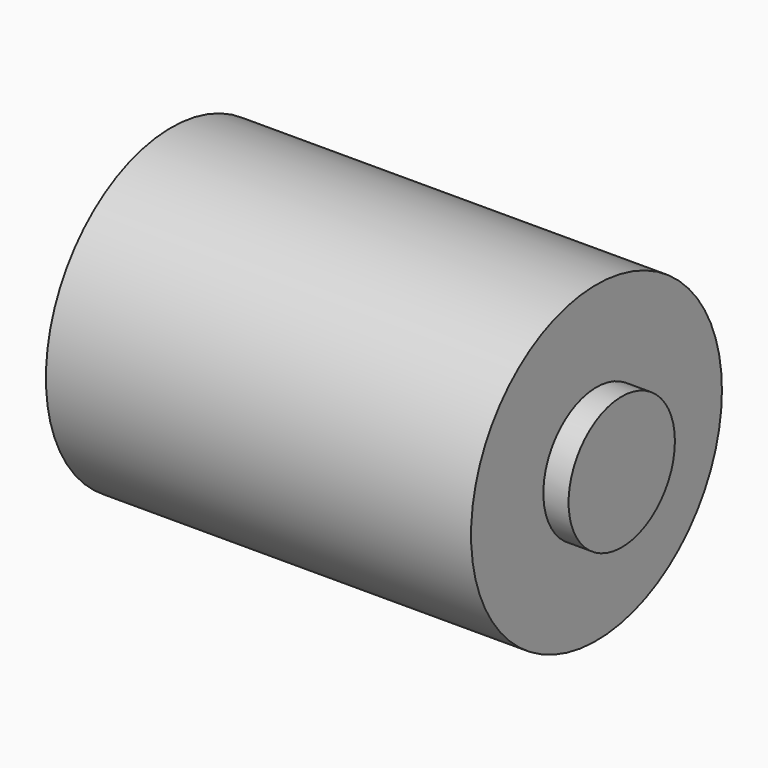
from build123d import *

# Parameters (mm, degrees)
F0_R     = 29.5
F0_R_2   = 12.5
F1_DEPTH = 40
F2_DEPTH = 44.75


with BuildPart() as f1:
    # F0 (on Right) → F1 (new body, symmetric)
    with BuildSketch(Plane.YZ):
        Circle(F0_R)
        Circle(F0_R_2, mode=Mode.SUBTRACT)
    extrude(amount=F1_DEPTH, both=True)

    # F0 (on Right) → F2 (join, symmetric)
    with BuildSketch(Plane.YZ):
        Circle(F0_R_2)
    extrude(amount=F2_DEPTH, both=True)


solid = f1.part
